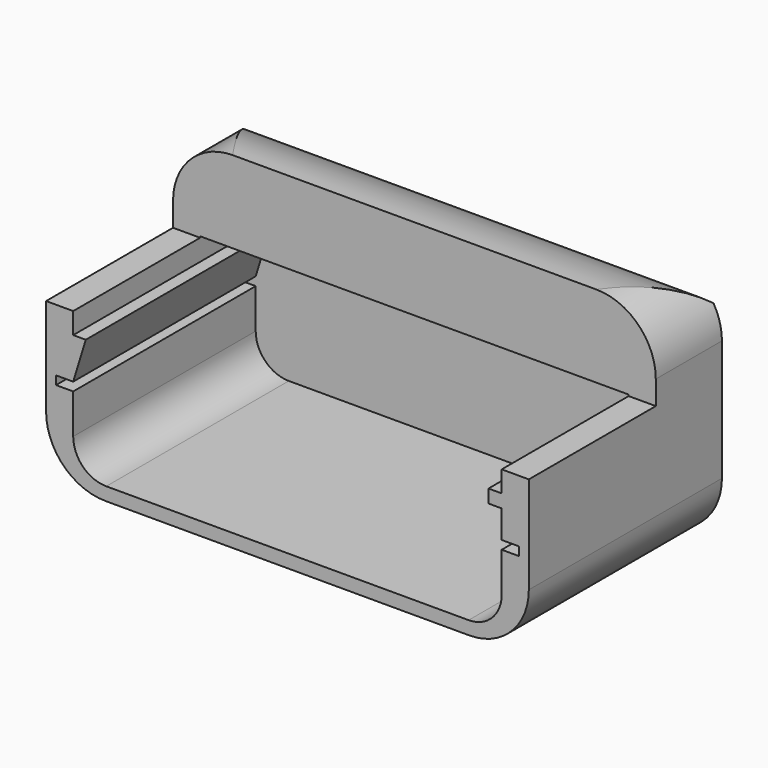
from build123d import *

# Parameters (mm, degrees)
EXTRUDE036_DEPTH                     = 100
EXTRUDE035_DEPTH                     = 2
EXTRUDE035_ONTO_SKETCH048_ROLL_ANGLE = 90
BOX016_W                             = 80
BOX016_H                             = 28
BOX016_DEPTH                         = 30
EXTRUDE034_DEPTH                     = 35.5
EXTRUDE034_ONTO_SKETCH047_ROLL_ANGLE = 90


with BuildPart() as round_cut:
    # Sketch049 → Extrude036 (new body)
    with BuildSketch(Plane.YZ.offset(-14)):
        with BuildLine():
            Line((100, 23.2), (100, 26.2))
            Line((100, 26.2), (133, 26.2))
            Line((133, 26.2), (133, -6.8))
            Line((133, -6.8), (130, -6.8))
            Line((130, -6.8), (130, 3.2))
            ThreePointArc((130, 3.2), (124.142136, 17.342136), (110, 23.2))
            Line((100, 23.2), (110, 23.2))
        make_face()
    extrude(amount=EXTRUDE036_DEPTH)


with BuildPart() as extrude035:
    # Sketch048 as drawn → Extrude035 (new)
    with BuildSketch(Plane.XY):
        with BuildLine():
            Line((-2.5, 14.2), (-2.5, -4.1))
            ThreePointArc((-2.5, -4.1), (0.136039, -10.463961), (6.5, -13.1))
            Line((6.5, -13.1), (61.5, -13.1))
            ThreePointArc((61.5, -13.1), (67.863961, -10.463961), (70.5, -4.1))
            Line((70.5, -4.1), (70.5, 14.2))
            ThreePointArc((70.5, 14.2), (67.863961, 20.563961), (61.5, 23.2))
            Line((6.5, 23.2), (61.5, 23.2))
            ThreePointArc((6.5, 23.2), (0.136039, 20.563961), (-2.5, 14.2))
        make_face()
    extrude(amount=-EXTRUDE035_DEPTH)


with BuildPart() as extrude035_1:
    # Extrude035 onto Sketch048 roll: moved
    add(extrude035.part.rotate(Axis((0, 0, 0), (1, 0, 0)), EXTRUDE035_ONTO_SKETCH048_ROLL_ANGLE))


with BuildPart() as extrude035_2:
    # Extrude035 onto Sketch048 placement: moved
    add(extrude035_1.part.moved(Location((0, 120, 0))))


with BuildPart() as extrude035_3:
    # Extrude035 placement: moved
    add(extrude035_2.part.moved(Location((0, 0.5, 0))))


with BuildPart() as cube004:
    # Box016 → Box016 (new body)
    with BuildSketch(Plane(origin=(-5, 82, 10.6), x_dir=(1, 0, 0), z_dir=(0, 0, 1))):
        with Locations((40, 14)):
            Rectangle(BOX016_W, BOX016_H)
    extrude(amount=BOX016_DEPTH)


with BuildPart() as cut012:
    # Sketch047 as drawn → Extrude034 (new)
    with BuildSketch(Plane.XY):
        with BuildLine():
            Line((-2.5, 14.2), (-2.5, -4.1))
            ThreePointArc((-2.5, -4.1), (0.136039, -10.463961), (6.5, -13.1))
            Line((6.5, -13.1), (61.5, -13.1))
            ThreePointArc((61.5, -13.1), (67.863961, -10.463961), (70.5, -4.1))
            Line((70.5, -4.1), (70.5, 14.2))
            ThreePointArc((70.5, 14.2), (67.863961, 20.563961), (61.5, 23.2))
            Line((6.5, 23.2), (61.5, 23.2))
            ThreePointArc((6.5, 23.2), (0.136039, 20.563961), (-2.5, 14.2))
        make_face()
        with BuildLine():
            Line((1.6, 1.2), (-1, 1.2))
            Line((-1, 1.2), (-1, -0.1))
            Line((-1, -0.1), (1.6, -0.1))
            Line((1.6, -0.1), (1.6, -6.1))
            ThreePointArc((1.6, -6.1), (3.064466, -9.635534), (6.6, -11.1))
            Line((6.6, -11.1), (61.4, -11.1))
            ThreePointArc((61.4, -11.1), (64.935534, -9.635534), (66.4, -6.1))
            Line((66.4, -0.1), (66.4, -6.1))
            Line((69, -0.1), (66.4, -0.1))
            Line((69, 1.2), (69, -0.1))
            Line((66.4, 1.2), (69, 1.2))
            Line((66.4, 5.4), (66.4, 1.2))
            Line((64.4, 5.4), (66.4, 5.4))
            Line((64.4, 7.4), (64.4, 5.4))
            Line((66.4, 7.4), (64.4, 7.4))
            Line((66.4, 10.6), (66.4, 7.4))
            Line((66.4, 10.6), (66.4, 10.8))
            Line((66.4, 10.8), (64.5, 10.8))
            Line((64.5, 10.8), (3.5, 10.8))
            Line((1.6, 10.8), (3.5, 10.8))
            Line((1.6, 10.6), (1.6, 10.8))
            Line((1.6, 10.6), (1.6, 7.4))
            Line((1.6, 7.4), (3.5, 7.4))
            Line((3.5, 7.4), (1.6, 1.2))
        make_face(mode=Mode.SUBTRACT)
    extrude(amount=EXTRUDE034_DEPTH)


with BuildPart() as cut012_1:
    # Extrude034 onto Sketch047 roll: moved
    add(cut012.part.rotate(Axis((0, 0, 0), (1, 0, 0)), EXTRUDE034_ONTO_SKETCH047_ROLL_ANGLE))


with BuildPart() as cut012_2:
    # Extrude034 onto Sketch047 placement: moved
    add(cut012_1.part.moved(Location((0, 120, 0))))


with BuildPart() as cut012_3:
    # Extrude034 placement: moved
    add(cut012_2.part.moved(Location((0, 1.5, 0))))

    # Cut011: cut Cube004
    add(cube004.part, mode=Mode.SUBTRACT)

    # Fusion020: union Extrude035
    add(extrude035_3.part)

    # Cut012: cut round_cut
    add(round_cut.part, mode=Mode.SUBTRACT)


solid = cut012_3.part
